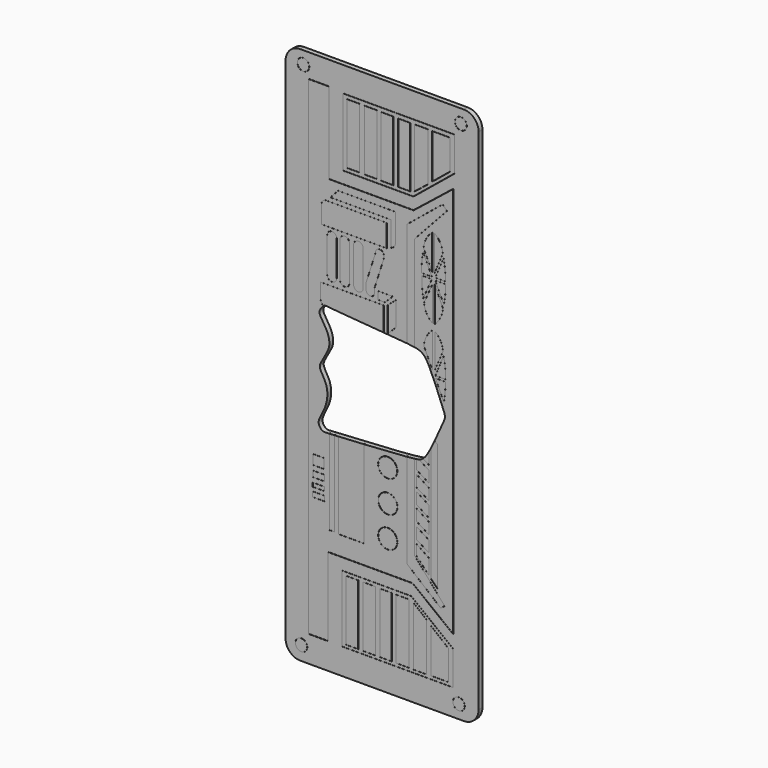
from build123d import *

# Parameters (mm, degrees)
PAD001_DEPTH    = 0.3
POCKET004_DEPTH = 5
SKETCH007_R     = 0.375091
SKETCH007_R_2   = 0.369525
SKETCH007_W     = 0.778816
SKETCH007_H     = 3.830357
SKETCH007_W_2   = 0.766408
SKETCH007_H_2   = 3.817949
SKETCH007_W_3   = 0.807136
SKETCH007_H_3   = 3.827612
SKETCH007_W_4   = 0.794728
SKETCH007_H_4   = 3.815204
SKETCH007_W_5   = 0.757575
SKETCH007_H_5   = 3.810073
SKETCH007_W_6   = 0.745167
SKETCH007_H_6   = 3.797665
SKETCH007_W_7   = 0.821297
SKETCH007_H_7   = 3.802037
SKETCH007_W_8   = 0.808889
SKETCH007_H_8   = 3.789629
SKETCH007_W_9   = 0.800302
SKETCH007_H_9   = 3.824439
SKETCH007_W_10  = 0.779916
SKETCH007_H_10  = 3.804053
SKETCH007_W_11  = 0.801989
SKETCH007_H_11  = 3.827356
SKETCH007_W_12  = 0.781603
SKETCH007_H_12  = 3.80697
SKETCH007_W_13  = 0.773427
SKETCH007_H_13  = 3.820652
SKETCH007_W_14  = 0.753041
SKETCH007_H_14  = 3.800266
SKETCH007_W_15  = 0.766539
SKETCH007_H_15  = 3.807707
SKETCH007_W_16  = 0.746153
SKETCH007_H_16  = 3.787321
POCKET005_DEPTH = 0.15
SKETCH008_R     = 0.606718
SKETCH008_R_2   = 0.598536
SKETCH008_W     = 0.744589
SKETCH008_H     = 0.307479
SKETCH008_W_2   = 0.684248
SKETCH008_H_2   = 0.606549
SKETCH008_W_3   = 0.310181
SKETCH008_H_3   = 5.586291
SKETCH008_W_4   = 1.585213
SKETCH008_H_4   = 5.551224
SKETCH008_W_5   = 0.718894
SKETCH008_H_5   = 0.363777
SKETCH008_W_6   = 0.728086
SKETCH008_H_6   = 0.238187
POCKET006_DEPTH = 0.15
POCKET007_DEPTH = 0.15
POCKET008_DEPTH = 0.15
POCKET015_DEPTH = 0.15


with BuildPart() as part:
    # Sketch005 (on Face1 of Binder) → Pad001 (new body)
    with BuildSketch(Plane.XZ.offset(-0.3)):
        with BuildLine():
            Line((1.126693, 34.178867), (1.126693, 2.112882))
            ThreePointArc((1.126693, 2.112882), (1.399084, 1.455272), (2.056693, 1.182882))
            Line((2.056693, 1.182882), (12.360974, 1.182882))
            ThreePointArc((12.360974, 1.182882), (13.018583, 1.455272), (13.290974, 2.112882))
            Line((13.290974, 2.112882), (13.290974, 34.178867))
            ThreePointArc((13.290974, 34.178867), (13.018583, 34.836476), (12.360974, 35.108867))
            Line((12.360974, 35.108867), (2.056693, 35.108867))
            ThreePointArc((2.056693, 35.108867), (1.399084, 34.836476), (1.126693, 34.178867))
        make_face()
    extrude(amount=PAD001_DEPTH)

    # Sketch006 (on Face10 of Pad001) → Pocket004 (cut)
    with BuildSketch(Plane(origin=(-62, 0, 13), x_dir=(0, 0, 1), z_dir=(0, -1, 0))):
        with BuildLine():
            add(Edge.make_bspline(
                [(1.355602, -65.608966), (1.66804, -71.4399), (1.83578, -71.688), (2.07667, -72.0466), (4.30498, -73.0674), (4.67076, -73.2141), (5.03591, -73.08), (7.4217, -72.1094), (7.7919, -71.7228), (7.96829, -71.2558), (8.19567, -67.6744), (8.37992, -65.8459), (8.42259, -65.5512), (8.14897, -65.3503), (7.85073, -65.1688), (7.12375, -65.7423), (6.32092, -65.9684), (5.76153, -65.7116), (5.10407, -65.3029), (4.8501, -65.2612), (4.52948, -65.4288), (4.05134, -65.7138), (3.48477, -65.791), (2.80509, -65.6762), (2.09148, -65.2854), (1.71373, -65.1348), (1.36287, -65.3938), (1.355602, -65.608966)],
                knots=[0, 0, 0, 0, 0.04, 0.08, 0.12, 0.16, 0.2, 0.24, 0.28, 0.32, 0.36, 0.4, 0.44, 0.48, 0.52, 0.56, 0.6, 0.64, 0.68, 0.72, 0.76, 0.8, 0.84, 0.88, 0.92, 0.96, 1, 1, 1, 1], degree=3))
        make_face()
    extrude(amount=-POCKET004_DEPTH, mode=Mode.SUBTRACT)

    # Sketch007 (on Face5 of Pocket004) → Pocket005 (cut)
    with BuildSketch(Plane.XZ):
        with Locations((12.045078, 2.028436)):
            Circle(SKETCH007_R)
        with Locations((12.045078, 2.028436)):
            Circle(SKETCH007_R_2, mode=Mode.SUBTRACT)
        with Locations((2.245632, 34.308849)):
            Circle(SKETCH007_R)
        with Locations((2.245632, 34.308849)):
            Circle(SKETCH007_R_2, mode=Mode.SUBTRACT)
        with Locations((12.174047, 34.259212)):
            Circle(SKETCH007_R)
        with Locations((12.174047, 34.259212)):
            Circle(SKETCH007_R_2, mode=Mode.SUBTRACT)
        with Locations((2.119383, 2.073536)):
            Circle(SKETCH007_R)
        with Locations((2.119383, 2.073536)):
            Circle(SKETCH007_R_2, mode=Mode.SUBTRACT)
        Polygon((4.69136, 7.041126), (4.69136, 2.822399), (11.682559, 2.822399), (11.682559, 4.982972), (9.036361, 7.041126), align=None)
        Polygon((11.676355, 4.979938), (9.034232, 7.034922), (4.697564, 7.034922), (4.697564, 2.828603), (11.676355, 2.828603), align=None, mode=Mode.SUBTRACT)
        Polygon((4.731433, 33.534367), (4.731433, 29.243624), (9.183317, 29.243624), (11.783524, 31.366392), (11.783524, 33.534367), align=None)
        Polygon((11.773331, 31.371229), (11.773331, 33.524174), (4.741626, 33.524174), (4.741626, 29.253817), (9.179685, 29.253817), align=None, mode=Mode.SUBTRACT)
        with BuildLine():
            Line((2.580592, 33.631219), (3.84992, 33.631219))
            ThreePointArc((3.863295, 33.617844), (3.859378, 33.627302), (3.84992, 33.631219))
            Line((3.863295, 33.617844), (3.863295, 28.496037))
            Line((3.863295, 28.496037), (9.189101, 28.496037))
            Line((9.189101, 28.496037), (11.6782, 30.484009))
            ThreePointArc((11.699922, 30.473558), (11.692346, 30.485611), (11.6782, 30.484009))
            Line((11.699922, 30.473558), (11.699922, 5.798064))
            ThreePointArc((11.678329, 5.787511), (11.69242, 5.786047), (11.699922, 5.798064))
            Line((11.678329, 5.787511), (9.128207, 7.773499))
            Line((9.128207, 7.773499), (3.801404, 7.773499))
            Line((3.801404, 7.773499), (3.801404, 2.846706))
            ThreePointArc((3.788029, 2.833331), (3.797487, 2.837248), (3.801404, 2.846706))
            Line((3.788029, 2.833331), (2.580592, 2.833331))
            ThreePointArc((2.567217, 2.846706), (2.571134, 2.837248), (2.580592, 2.833331))
            Line((2.567217, 2.846706), (2.567217, 33.617844))
            ThreePointArc((2.580592, 33.631219), (2.571134, 33.627302), (2.567217, 33.617844))
        make_face()
        Polygon((2.580592, 2.846706), (2.580592, 33.617844), (3.84992, 33.617844), (3.84992, 28.482662), (9.193787, 28.482662), (11.686547, 30.473558), (11.686547, 5.798064), (9.132801, 7.786874), (3.788029, 7.786874), (3.788029, 2.846706), align=None, mode=Mode.SUBTRACT)
        with Locations((5.317419, 4.916993)):
            Rectangle(SKETCH007_W, SKETCH007_H)
        with Locations((5.317419, 4.916992)):
            Rectangle(SKETCH007_W_2, SKETCH007_H_2, mode=Mode.SUBTRACT)
        with Locations((6.399229, 4.918562)):
            Rectangle(SKETCH007_W_3, SKETCH007_H_3)
        with Locations((6.399229, 4.918562)):
            Rectangle(SKETCH007_W_4, SKETCH007_H_4, mode=Mode.SUBTRACT)
        with Locations((7.440074, 4.912974)):
            Rectangle(SKETCH007_W_5, SKETCH007_H_5)
        with Locations((7.440074, 4.912974)):
            Rectangle(SKETCH007_W_6, SKETCH007_H_6, mode=Mode.SUBTRACT)
        with Locations((8.503483, 4.909912)):
            Rectangle(SKETCH007_W_7, SKETCH007_H_7)
        with Locations((8.503483, 4.909912)):
            Rectangle(SKETCH007_W_8, SKETCH007_H_8, mode=Mode.SUBTRACT)
        Polygon((9.177785, 6.724462), (9.177785, 3.002967), (10.012512, 3.002967), (10.012512, 6.046246), align=None)
        Polygon((10.006308, 3.009171), (10.006308, 6.043293), (9.183989, 6.711428), (9.183989, 3.009171), align=None, mode=Mode.SUBTRACT)
        Polygon((10.281352, 5.802783), (10.281352, 3.022105), (11.396448, 3.022105), (11.396448, 4.898495), align=None)
        Polygon((11.390244, 3.028309), (11.390244, 4.895539), (10.287556, 5.789765), (10.287556, 3.028309), align=None, mode=Mode.SUBTRACT)
        with Locations((5.389204, 31.382154)):
            Rectangle(SKETCH007_W_9, SKETCH007_H_9)
        with Locations((5.389204, 31.382154)):
            Rectangle(SKETCH007_W_10, SKETCH007_H_10, mode=Mode.SUBTRACT)
        with Locations((6.491385, 31.378234)):
            Rectangle(SKETCH007_W_11, SKETCH007_H_11)
        with Locations((6.491385, 31.378234)):
            Rectangle(SKETCH007_W_12, SKETCH007_H_12, mode=Mode.SUBTRACT)
        with Locations((7.531404, 31.368128)):
            Rectangle(SKETCH007_W_13, SKETCH007_H_13)
        with Locations((7.531404, 31.368128)):
            Rectangle(SKETCH007_W_14, SKETCH007_H_14, mode=Mode.SUBTRACT)
        with Locations((8.600178, 31.368429)):
            Rectangle(SKETCH007_W_15, SKETCH007_H_15)
        with Locations((8.600177, 31.368428)):
            Rectangle(SKETCH007_W_16, SKETCH007_H_16, mode=Mode.SUBTRACT)
        with BuildLine():
            Line((10.097285, 33.270725), (10.097285, 30.217928))
            ThreePointArc((10.097285, 30.217928), (10.09626, 30.213473), (10.093391, 30.209914))
            Line((10.093391, 30.209914), (9.266189, 29.559705))
            ThreePointArc((9.266189, 29.559705), (9.255435, 29.558551), (9.249697, 29.567719))
            Line((9.249697, 29.567719), (9.249697, 33.270725))
            ThreePointArc((9.249697, 33.270725), (9.252682, 33.277933), (9.25989, 33.280918))
            Line((9.25989, 33.280918), (10.087092, 33.280918))
            ThreePointArc((10.087092, 33.280918), (10.0943, 33.277933), (10.097285, 33.270725))
        make_face()
        Polygon((9.25989, 33.270725), (10.087092, 33.270725), (10.087092, 30.217928), (9.25989, 29.567719), align=None, mode=Mode.SUBTRACT)
        with BuildLine():
            Line((10.363831, 30.469982), (10.363831, 33.261158))
            ThreePointArc((10.363831, 33.261158), (10.366816, 33.268366), (10.374024, 33.271351))
            Line((10.374024, 33.271351), (11.484273, 33.271351))
            ThreePointArc((11.484273, 33.271351), (11.491481, 33.268366), (11.494466, 33.261158))
            Line((11.494466, 33.261158), (11.494466, 31.379837))
            ThreePointArc((11.494466, 31.379837), (11.493486, 31.375476), (11.490734, 31.371953))
            Line((11.490734, 31.371953), (10.380485, 30.462098))
            ThreePointArc((10.380485, 30.462098), (10.369663, 30.460769), (10.363831, 30.469982))
        make_face()
        Polygon((10.374024, 33.261158), (11.484273, 33.261158), (11.484273, 31.379837), (10.374024, 30.469982), align=None, mode=Mode.SUBTRACT)
    extrude(amount=-POCKET005_DEPTH, mode=Mode.SUBTRACT)

    # Sketch008 (on Face42 of Pocket005) → Pocket006 (cut)
    with BuildSketch(Plane.XZ):
        with Locations((7.567519, 9.742254)):
            Circle(SKETCH008_R)
        with Locations((7.567519, 9.742254)):
            Circle(SKETCH008_R_2, mode=Mode.SUBTRACT)
        with Locations((7.562839, 13.685203)):
            Circle(SKETCH008_R)
        with Locations((7.562839, 13.685203)):
            Circle(SKETCH008_R_2, mode=Mode.SUBTRACT)
        with Locations((7.572141, 11.689745)):
            Circle(SKETCH008_R)
        with Locations((7.572141, 11.689745)):
            Circle(SKETCH008_R_2, mode=Mode.SUBTRACT)
        with BuildLine():
            Line((2.814997, 10.826424), (2.814997, 10.518945))
            ThreePointArc((2.820425, 10.513517), (2.816587, 10.515107), (2.814997, 10.518945))
            Line((2.820425, 10.513517), (3.565014, 10.513517))
            ThreePointArc((3.570442, 10.518945), (3.568852, 10.515107), (3.565014, 10.513517))
            Line((3.570442, 10.518945), (3.570442, 10.826424))
            ThreePointArc((3.565014, 10.831852), (3.568852, 10.830262), (3.570442, 10.826424))
            Line((3.565014, 10.831852), (2.820425, 10.831852))
            ThreePointArc((2.814997, 10.826424), (2.816587, 10.830262), (2.820425, 10.831852))
        make_face()
        with Locations((3.192719, 10.672684)):
            Rectangle(SKETCH008_W, SKETCH008_H, mode=Mode.SUBTRACT)
        with BuildLine():
            Line((2.853515, 12.295472), (3.537763, 12.295472))
            ThreePointArc((3.543191, 12.3009), (3.541601, 12.297062), (3.537763, 12.295472))
            Line((3.543191, 12.3009), (3.543191, 12.907449))
            ThreePointArc((3.537763, 12.912877), (3.541601, 12.911287), (3.543191, 12.907449))
            Line((3.537763, 12.912877), (2.853515, 12.912877))
            ThreePointArc((2.848087, 12.907449), (2.849677, 12.911287), (2.853515, 12.912877))
            Line((2.848087, 12.907449), (2.848087, 12.3009))
            ThreePointArc((2.853515, 12.295472), (2.849677, 12.297062), (2.848087, 12.3009))
        make_face()
        with Locations((3.195639, 12.604174)):
            Rectangle(SKETCH008_W_2, SKETCH008_H_2, mode=Mode.SUBTRACT)
        with BuildLine():
            Line((4.202824, 14.617292), (3.892643, 14.617292))
            ThreePointArc((3.887215, 14.611864), (3.888805, 14.615702), (3.892643, 14.617292))
            Line((3.887215, 14.611864), (3.887215, 9.025573))
            ThreePointArc((3.892643, 9.020145), (3.888805, 9.021735), (3.887215, 9.025573))
            Line((3.892643, 9.020145), (4.202824, 9.020145))
            ThreePointArc((4.208252, 9.025573), (4.206662, 9.021735), (4.202824, 9.020145))
            Line((4.208252, 9.025573), (4.208252, 14.611864))
            ThreePointArc((4.202824, 14.617292), (4.206662, 14.615702), (4.208252, 14.611864))
        make_face()
        with Locations((4.047733, 11.818718)):
            Rectangle(SKETCH008_W_3, SKETCH008_H_3, mode=Mode.SUBTRACT)
        with BuildLine():
            Line((6.059732, 14.546678), (4.474519, 14.546678))
            ThreePointArc((4.469091, 14.54125), (4.470681, 14.545088), (4.474519, 14.546678))
            Line((4.469091, 14.54125), (4.469091, 8.990026))
            ThreePointArc((4.474519, 8.984598), (4.470681, 8.986188), (4.469091, 8.990026))
            Line((4.474519, 8.984598), (6.059732, 8.984598))
            ThreePointArc((6.06516, 8.990026), (6.06357, 8.986188), (6.059732, 8.984598))
            Line((6.06516, 8.990026), (6.06516, 14.54125))
            ThreePointArc((6.059732, 14.546678), (6.06357, 14.545088), (6.06516, 14.54125))
        make_face()
        with Locations((5.267125, 11.765638)):
            Rectangle(SKETCH008_W_4, SKETCH008_H_4, mode=Mode.SUBTRACT)
        with BuildLine():
            Line((2.853515, 11.619886), (3.572409, 11.619886))
            ThreePointArc((3.577837, 11.625314), (3.576247, 11.621476), (3.572409, 11.619886))
            Line((3.577837, 11.625314), (3.577837, 11.989091))
            ThreePointArc((3.572409, 11.994519), (3.576247, 11.992929), (3.577837, 11.989091))
            Line((3.572409, 11.994519), (2.853515, 11.994519))
            ThreePointArc((2.848087, 11.989091), (2.849677, 11.992929), (2.853515, 11.994519))
            Line((2.848087, 11.989091), (2.848087, 11.625314))
            ThreePointArc((2.853515, 11.619886), (2.849677, 11.621476), (2.848087, 11.625314))
        make_face()
        with Locations((3.212962, 11.807202)):
            Rectangle(SKETCH008_W_5, SKETCH008_H_5, mode=Mode.SUBTRACT)
        with BuildLine():
            Line((3.573988, 11.083446), (3.573988, 11.321633))
            ThreePointArc((3.56856, 11.327061), (3.572398, 11.325471), (3.573988, 11.321633))
            Line((3.56856, 11.327061), (2.840474, 11.327061))
            ThreePointArc((2.835046, 11.321633), (2.836636, 11.325471), (2.840474, 11.327061))
            Line((2.835046, 11.321633), (2.835046, 11.083446))
            ThreePointArc((2.840474, 11.078018), (2.836636, 11.079608), (2.835046, 11.083446))
            Line((2.840474, 11.078018), (3.56856, 11.078018))
            ThreePointArc((3.573988, 11.083446), (3.572398, 11.079608), (3.56856, 11.078018))
        make_face()
        with Locations((3.204517, 11.20254)):
            Rectangle(SKETCH008_W_6, SKETCH008_H_6, mode=Mode.SUBTRACT)
        with BuildLine():
            Line((11.2947, 29.132057), (11.031389, 29.414585))
            ThreePointArc((11.02682, 29.414896), (11.029166, 29.415644), (11.031389, 29.414585))
            Line((11.02682, 29.414896), (8.769895, 27.571117))
            ThreePointArc((8.768665, 27.568523), (8.768988, 27.569958), (8.769895, 27.571117))
            Line((8.768665, 27.568523), (8.768665, 8.745967))
            ThreePointArc((8.769877, 8.743388), (8.768983, 8.744542), (8.768665, 8.745967))
            Line((8.769877, 8.743388), (10.903269, 6.974993))
            ThreePointArc((10.907507, 6.974964), (10.905383, 6.974223), (10.903269, 6.974993))
            Line((10.907507, 6.974964), (11.149418, 7.169855))
            ThreePointArc((11.149847, 7.174658), (11.150653, 7.172165), (11.149418, 7.169855))
            Line((11.149847, 7.174658), (9.240158, 9.375393))
            Line((9.240158, 9.375393), (9.240158, 26.899848))
            Line((9.240158, 26.899848), (11.294712, 29.127503))
            ThreePointArc((11.2947, 29.132057), (11.295599, 29.129783), (11.294712, 29.127503))
        make_face()
        Polygon((10.905406, 6.977572), (11.147317, 7.172463), (9.236809, 9.374142), (9.236809, 26.901157), (11.29225, 29.129774), (11.028939, 29.412302), (8.772014, 27.568523), (8.772014, 8.745967), align=None, mode=Mode.SUBTRACT)
    extrude(amount=-POCKET006_DEPTH, mode=Mode.SUBTRACT)

    # Sketch009 (on Face42 of Pocket006) → Pocket007 (cut)
    with BuildSketch(Plane.XZ):
        with BuildLine():
            ThreePointArc((10.381574, 22.222864), (10.00685, 21.756493), (9.837909, 21.182578))
            Line((9.837909, 21.182578), (10.381574, 20.006021))
            Line((10.381574, 20.006021), (10.381574, 22.222864))
        make_face()
        with BuildLine():
            Line((9.841828, 21.183254), (10.377732, 20.023493))
            Line((10.377732, 20.023493), (10.377732, 22.214591))
            ThreePointArc((10.377732, 22.214591), (10.008584, 21.751506), (9.841828, 21.183254))
        make_face(mode=Mode.SUBTRACT)
        with BuildLine():
            ThreePointArc((11.047947, 21.265291), (10.893768, 21.798191), (10.529394, 22.216503))
            Line((10.529394, 22.216503), (10.529394, 20.040993))
            Line((10.529394, 20.040993), (11.047947, 21.265291))
        make_face()
        with BuildLine():
            Line((10.533236, 20.059913), (11.044055, 21.265951))
            ThreePointArc((11.044055, 21.265951), (10.892001, 21.793397), (10.533236, 22.208856))
            Line((10.533236, 22.208856), (10.533236, 20.059913))
        make_face(mode=Mode.SUBTRACT)
        with BuildLine():
            ThreePointArc((11.107155, 18.447756), (11.180929, 19.034222), (11.203118, 19.624894))
            Line((11.203118, 19.624894), (10.56467, 19.624894))
            Line((10.56467, 19.624894), (11.107155, 18.447756))
        make_face()
        with BuildLine():
            ThreePointArc((11.105445, 18.460646), (11.177449, 19.038821), (11.199299, 19.621052))
            Line((11.199299, 19.621052), (10.57067, 19.621052))
            Line((10.57067, 19.621052), (11.105445, 18.460646))
        make_face(mode=Mode.SUBTRACT)
        with BuildLine():
            ThreePointArc((10.523294, 22.59779), (10.881738, 23.068561), (11.05464, 23.634435))
            Line((10.523294, 24.804707), (11.05464, 23.634435))
            Line((10.523294, 22.59779), (10.523294, 24.804707))
        make_face()
        with BuildLine():
            ThreePointArc((10.527136, 22.606566), (10.88007, 23.073738), (11.050698, 23.633826))
            Line((10.527136, 24.786953), (11.050698, 23.633826))
            Line((10.527136, 22.606566), (10.527136, 24.786953))
        make_face(mode=Mode.SUBTRACT)
        with BuildLine():
            ThreePointArc((9.710884, 25.041148), (9.725754, 24.415364), (9.800253, 23.793852))
            Line((9.800253, 23.793852), (10.350559, 25.041148))
            Line((10.350559, 25.041148), (9.710884, 25.041148))
        make_face()
        with BuildLine():
            ThreePointArc((9.714635, 25.037306), (9.729263, 24.420168), (9.80192, 23.807147))
            Line((9.80192, 23.807147), (10.344665, 25.037306))
            Line((10.344665, 25.037306), (9.714635, 25.037306))
        make_face(mode=Mode.SUBTRACT)
        with BuildLine():
            ThreePointArc((11.105835, 23.859908), (11.192576, 24.449477), (11.214635, 25.044985))
            Line((10.555792, 25.044985), (11.214635, 25.044985))
            Line((11.105835, 23.859908), (10.555792, 25.044985))
        make_face()
        with BuildLine():
            ThreePointArc((11.104391, 23.872145), (11.189111, 24.453777), (11.210859, 25.041143))
            Line((10.56181, 25.041143), (11.210859, 25.041143))
            Line((11.104391, 23.872145), (10.56181, 25.041143))
        make_face(mode=Mode.SUBTRACT)
        with BuildLine():
            ThreePointArc((10.370843, 27.641324), (9.988396, 27.174783), (9.822829, 26.594686))
            Line((10.370843, 25.438495), (9.822829, 26.594686))
            Line((10.370843, 27.641324), (10.370843, 25.438495))
        make_face()
        with BuildLine():
            ThreePointArc((10.367001, 27.63325), (9.990168, 27.169877), (9.826735, 26.595414))
            Line((10.367001, 25.45557), (9.826735, 26.595414))
            Line((10.367001, 27.63325), (10.367001, 25.45557))
        make_face(mode=Mode.SUBTRACT)
        with BuildLine():
            ThreePointArc((11.039974, 26.67977), (10.883743, 27.214415), (10.519296, 27.635643))
            Line((10.519296, 25.438641), (10.519296, 27.635643))
            Line((11.039974, 26.67977), (10.519296, 25.438641))
        make_face()
        with BuildLine():
            ThreePointArc((11.036078, 26.680413), (10.881987, 27.209597), (10.523138, 27.627936))
            Line((10.523138, 25.457729), (10.523138, 27.627936))
            Line((11.036078, 26.680413), (10.523138, 25.457729))
        make_face(mode=Mode.SUBTRACT)
        with BuildLine():
            Line((9.792059, 26.376844), (10.348312, 25.180063))
            ThreePointArc((10.348312, 25.180063), (10.348067, 25.176378), (10.344828, 25.174602))
            Line((9.706977, 25.174602), (10.344828, 25.174602))
            ThreePointArc((9.706977, 25.174602), (9.704328, 25.175661), (9.70314, 25.178254))
            ThreePointArc((9.7848, 26.375934), (9.70873, 25.779497), (9.70314, 25.178254))
            ThreePointArc((9.7848, 26.375934), (9.788098, 26.379037), (9.792059, 26.376844))
        make_face()
        with BuildLine():
            ThreePointArc((9.788576, 26.375225), (9.712563, 25.779235), (9.706977, 25.178444))
            Line((9.706977, 25.178444), (10.344828, 25.178444))
            Line((9.788576, 26.375225), (10.344828, 25.178444))
        make_face(mode=Mode.SUBTRACT)
        with BuildLine():
            Line((11.204948, 19.761951), (10.571971, 19.761951))
            ThreePointArc((10.571971, 19.761951), (10.568783, 19.76365), (10.568414, 19.767244))
            Line((11.081578, 21.025281), (10.568414, 19.767244))
            ThreePointArc((11.081578, 21.025281), (11.085449, 21.027659), (11.088881, 21.024682))
            ThreePointArc((11.208788, 19.765663), (11.189409, 20.399037), (11.088881, 21.024682))
            ThreePointArc((11.208788, 19.765663), (11.207618, 19.763031), (11.204948, 19.761951))
        make_face()
        with BuildLine():
            ThreePointArc((11.204948, 19.765793), (11.185585, 20.398673), (11.085135, 21.02383))
            Line((11.085135, 21.02383), (10.571971, 19.765793))
            Line((11.204948, 19.765793), (10.571971, 19.765793))
        make_face(mode=Mode.SUBTRACT)
        with BuildLine():
            Line((10.38404, 24.769808), (10.38404, 22.609736))
            ThreePointArc((10.38404, 22.609736), (10.381914, 22.606299), (10.377889, 22.606666))
            ThreePointArc((9.84747, 23.57162), (10.00905, 23.03218), (10.377889, 22.606666))
            ThreePointArc((9.84747, 23.57162), (9.847513, 23.572567), (9.847786, 23.573476))
            Line((9.847786, 23.573476), (10.376684, 24.77136))
            ThreePointArc((10.376684, 24.77136), (10.380992, 24.773567), (10.38404, 24.769808))
        make_face()
        with BuildLine():
            ThreePointArc((9.8513, 23.571924), (10.012417, 23.03403), (10.380199, 22.609736))
            Line((10.380199, 24.769808), (10.380199, 22.609736))
            Line((9.8513, 23.571924), (10.380199, 24.769808))
        make_face(mode=Mode.SUBTRACT)
        with BuildLine():
            Line((11.202956, 25.190145), (10.559283, 25.190145))
            ThreePointArc((10.559283, 25.190145), (10.556085, 25.191859), (10.555739, 25.19547))
            Line((10.555739, 25.19547), (11.082841, 26.454426))
            ThreePointArc((11.082841, 26.454426), (11.086781, 26.456764), (11.090158, 26.453667))
            ThreePointArc((11.206798, 25.193967), (11.179179, 25.82666), (11.090158, 26.453667))
            ThreePointArc((11.206798, 25.193967), (11.205666, 25.191263), (11.202956, 25.190145))
        make_face()
        with BuildLine():
            ThreePointArc((11.202956, 25.193987), (11.175354, 25.826306), (11.086385, 26.452943))
            Line((10.559283, 25.193987), (11.086385, 26.452943))
            Line((11.202956, 25.193987), (10.559283, 25.193987))
        make_face(mode=Mode.SUBTRACT)
    extrude(amount=-POCKET007_DEPTH, mode=Mode.SUBTRACT)

    # Sketch010 (on Face42 of Pocket007) → Pocket008 (cut)
    with BuildSketch(Plane.XZ):
        with BuildLine():
            ThreePointArc((4.352748, 25.333145), (4.053459, 25.640706), (3.749188, 25.338072))
            Line((3.749188, 23.169767), (3.749188, 25.338072))
            ThreePointArc((3.749188, 23.169767), (4.045195, 22.844844), (4.352748, 23.15886))
            Line((4.352748, 25.333145), (4.352748, 23.15886))
        make_face()
        with BuildLine():
            Line((4.349576, 25.333205), (4.349578, 23.158737))
            ThreePointArc((3.75236, 23.169529), (4.045257, 22.848021), (4.349578, 23.158737))
            Line((3.75236, 25.338081), (3.75236, 23.169529))
            ThreePointArc((4.349576, 25.333205), (4.053433, 25.637534), (3.75236, 25.338081))
        make_face(mode=Mode.SUBTRACT)
        with BuildLine():
            ThreePointArc((3.325617, 21.643093), (3.560932, 21.261875), (3.967498, 21.073715))
            Line((7.315129, 21.073715), (3.967498, 21.073715))
            Line((7.315129, 22.601913), (7.315129, 21.073715))
            Line((3.325617, 22.601913), (7.315129, 22.601913))
            Line((3.325617, 21.643093), (3.325617, 22.601913))
        make_face()
        with BuildLine():
            Line((3.328789, 21.64351), (3.328789, 22.598741))
            Line((3.328789, 22.598741), (7.311957, 22.598741))
            Line((7.311957, 22.598741), (7.311957, 21.076887))
            Line((7.311957, 21.076887), (3.967723, 21.076887))
            ThreePointArc((3.328789, 21.64351), (3.563109, 21.264185), (3.967723, 21.076887))
        make_face(mode=Mode.SUBTRACT)
        Polygon((6.958669, 23.283884), (7.896339, 23.283884), (7.38583, 22.794212), (6.958669, 22.794212), align=None)
        Polygon((7.384555, 22.797384), (6.961841, 22.797384), (6.961841, 23.280712), (7.888449, 23.280712), align=None, mode=Mode.SUBTRACT)
        with BuildLine():
            ThreePointArc((3.731967, 27.242815), (3.511101, 27.190256), (3.400844, 26.991793))
            Line((3.400844, 26.991793), (3.400831, 25.82872))
            ThreePointArc((3.404003, 25.825548), (3.40176, 25.826477), (3.400831, 25.82872))
            Line((3.404003, 25.825548), (7.499319, 25.825548))
            ThreePointArc((7.502491, 25.82872), (7.501562, 25.826477), (7.499319, 25.825548))
            Line((7.502491, 25.82872), (7.502491, 27.239643))
            ThreePointArc((7.499319, 27.242815), (7.501562, 27.241886), (7.502491, 27.239643))
            Line((7.499319, 27.242815), (3.731967, 27.242815))
        make_face()
        with BuildLine():
            ThreePointArc((3.731677, 27.239643), (3.513132, 27.187815), (3.404003, 26.991501))
            Line((3.404003, 26.991501), (3.404003, 25.82872))
            Line((3.404003, 25.82872), (7.499319, 25.82872))
            Line((7.499319, 25.82872), (7.499319, 27.239643))
            Line((7.499319, 27.239643), (3.731677, 27.239643))
        make_face(mode=Mode.SUBTRACT)
        with BuildLine():
            ThreePointArc((7.783155, 25.950663), (7.780359, 25.951166), (7.779088, 25.953706))
            Line((7.779088, 27.497026), (7.779088, 25.953706))
            Line((3.954886, 27.497026), (7.779088, 27.497026))
            ThreePointArc((3.954886, 27.497026), (3.951981, 27.498924), (3.952553, 27.502347))
            Line((4.437877, 28.029294), (3.952553, 27.502347))
            ThreePointArc((4.437877, 28.029294), (4.438936, 28.03005), (4.44021, 28.030317))
            Line((8.05037, 28.030317), (4.44021, 28.030317))
            ThreePointArc((8.05037, 28.030317), (8.052613, 28.029388), (8.053542, 28.027145))
            Line((8.053542, 26.276216), (8.053542, 28.027145))
            ThreePointArc((8.053542, 26.276216), (8.053538, 26.276054), (8.053526, 26.275892))
            ThreePointArc((7.783155, 25.950663), (7.967866, 26.072105), (8.053526, 26.275892))
        make_face()
        with BuildLine():
            ThreePointArc((7.78226, 25.953706), (7.965427, 26.074133), (8.05037, 26.276216))
            Line((8.05037, 26.276216), (8.05037, 28.027145))
            Line((8.05037, 28.027145), (4.44021, 28.027145))
            Line((4.44021, 28.027145), (3.954886, 27.500198))
            Line((3.954886, 27.500198), (7.78226, 27.500198))
            Line((7.78226, 27.500198), (7.78226, 25.953706))
        make_face(mode=Mode.SUBTRACT)
        with BuildLine():
            Line((7.567799, 21.110838), (8.080967, 21.626557))
            ThreePointArc((8.08189, 21.628794), (8.08165, 21.627584), (8.080967, 21.626557))
            Line((8.08189, 21.628794), (8.08189, 23.140629))
            ThreePointArc((8.076646, 23.143031), (8.080039, 23.143513), (8.08189, 23.140629))
            Line((8.076646, 23.143031), (7.563478, 22.700242))
            ThreePointArc((7.562378, 22.69784), (7.562666, 22.699161), (7.563478, 22.700242))
            Line((7.562378, 22.69784), (7.562378, 21.113075))
            ThreePointArc((7.567799, 21.110838), (7.56434, 21.110143), (7.562378, 21.113075))
        make_face()
        Polygon((8.078718, 23.140629), (7.56555, 22.69784), (7.56555, 21.113075), (8.078718, 21.628794), align=None, mode=Mode.SUBTRACT)
        with BuildLine():
            ThreePointArc((7.324167, 25.213755), (7.324129, 25.213264), (7.324015, 25.212784))
            Line((6.733445, 23.37534), (7.324015, 25.212784))
            Line((6.733445, 23.108342), (6.733445, 23.37534))
            ThreePointArc((6.200374, 23.123363), (6.459205, 22.842437), (6.733445, 23.108342))
            Line((6.200374, 23.123363), (6.200374, 23.50795))
            ThreePointArc((6.200374, 23.50795), (6.200412, 23.508444), (6.200528, 23.508926))
            Line((6.200528, 23.508926), (6.793221, 25.342362))
            ThreePointArc((7.324167, 25.337978), (7.061075, 25.628496), (6.793221, 25.342362))
            Line((7.324167, 25.213755), (7.324167, 25.337978))
        make_face()
        with BuildLine():
            ThreePointArc((6.203546, 23.123278), (6.459252, 22.845609), (6.730273, 23.108351))
            Line((6.730273, 23.108351), (6.730273, 23.375837))
            Line((6.730273, 23.375837), (7.320995, 25.213755))
            Line((7.320995, 25.213755), (7.320995, 25.338123))
            ThreePointArc((7.320995, 25.338123), (7.06081, 25.625325), (6.796431, 25.341979))
            Line((6.203546, 23.50795), (6.796431, 25.341979))
            Line((6.203546, 23.123278), (6.203546, 23.50795))
        make_face(mode=Mode.SUBTRACT)
        with BuildLine():
            Line((4.547035, 23.157067), (4.547035, 25.337803))
            ThreePointArc((5.156584, 25.333568), (4.853948, 25.643512), (4.547035, 25.337803))
            Line((5.156584, 25.333568), (5.156584, 23.157396))
            ThreePointArc((4.547035, 23.157067), (4.851983, 22.835456), (5.156584, 23.157396))
        make_face()
        with BuildLine():
            ThreePointArc((5.153411, 25.333595), (4.853937, 25.64034), (4.550207, 25.337808))
            Line((4.550207, 23.156982), (4.550207, 25.337808))
            ThreePointArc((4.550207, 23.156982), (4.851982, 22.838629), (5.153411, 23.157309))
            Line((5.153411, 25.333595), (5.153411, 23.157309))
        make_face(mode=Mode.SUBTRACT)
        with BuildLine():
            Line((5.410376, 23.144503), (5.410376, 25.337529))
            ThreePointArc((6.02013, 25.334024), (5.717021, 25.643432), (5.410376, 25.337529))
            Line((6.02013, 25.334024), (6.02013, 23.156732))
            ThreePointArc((5.410376, 23.144503), (5.721718, 22.828249), (6.02013, 23.156732))
        make_face()
        with BuildLine():
            ThreePointArc((6.016957, 25.334047), (5.717012, 25.64026), (5.413548, 25.337534))
            Line((5.413548, 23.144446), (5.413548, 25.337534))
            ThreePointArc((5.413548, 23.144446), (5.721686, 22.831421), (6.016957, 23.156612))
            Line((6.016957, 25.334047), (6.016957, 23.156612))
        make_face(mode=Mode.SUBTRACT)
    extrude(amount=-POCKET008_DEPTH, mode=Mode.SUBTRACT)

    # Sketch016 (on Face42 of Pocket008) → Pocket015 (cut)
    with BuildSketch(Plane.XZ):
        Polygon((9.385396, 12.002758), (10.154909, 11.518437), (10.154909, 10.804612), (9.385396, 11.285558), align=None)
        Polygon((9.389757, 11.99486), (10.150548, 11.516029), (10.150548, 10.812481), (9.389757, 11.287975), align=None, mode=Mode.SUBTRACT)
        with BuildLine():
            Line((10.160933, 9.804494), (10.160933, 10.506506))
            ThreePointArc((10.158903, 10.510192), (10.160392, 10.50861), (10.160933, 10.506506))
            Line((10.158903, 10.510192), (9.374203, 11.006326))
            ThreePointArc((9.367511, 11.00264), (9.369768, 11.00646), (9.374203, 11.006326))
            Line((9.367511, 11.00264), (9.367511, 10.283752))
            ThreePointArc((9.369599, 10.28003), (9.368068, 10.281618), (9.367511, 10.283752))
            Line((9.369599, 10.28003), (10.154299, 9.800772))
            ThreePointArc((10.160933, 9.804494), (10.158706, 9.80069), (10.154299, 9.800772))
        make_face()
        Polygon((9.371872, 11.00264), (9.371872, 10.283752), (10.156572, 9.804494), (10.156572, 10.506506), align=None, mode=Mode.SUBTRACT)
        with BuildLine():
            Line((9.441434, 16.873859), (9.441434, 16.224291))
            ThreePointArc((9.443035, 16.220914), (9.441854, 16.222422), (9.441434, 16.224291))
            Line((9.443035, 16.220914), (10.290732, 15.528137))
            Line((10.290732, 15.528137), (10.290732, 8.397667))
            ThreePointArc((10.292005, 8.394587), (10.291062, 8.396001), (10.290732, 8.397667))
            Line((10.292005, 8.394587), (10.694155, 7.991266))
            ThreePointArc((10.701604, 7.994346), (10.698909, 7.990315), (10.694155, 7.991266))
            Line((10.701604, 7.994346), (10.701604, 15.987389))
            ThreePointArc((10.699764, 15.990948), (10.701117, 15.989392), (10.701604, 15.987389))
            Line((10.699764, 15.990948), (9.448316, 16.877418))
            ThreePointArc((9.441434, 16.873859), (9.443792, 16.877733), (9.448316, 16.877418))
        make_face()
        Polygon((9.445795, 16.224291), (10.295093, 15.530205), (10.295093, 8.397667), (10.697243, 7.994346), (10.697243, 15.987389), (9.445795, 16.873859), align=None, mode=Mode.SUBTRACT)
        with BuildLine():
            Line((9.379288, 10.031207), (9.379288, 9.374758))
            ThreePointArc((9.380471, 9.371771), (9.379594, 9.373152), (9.379288, 9.374758))
            Line((9.380471, 9.371771), (10.14846, 8.554524))
            ThreePointArc((10.155999, 8.557511), (10.153244, 8.553456), (10.14846, 8.554524))
            Line((10.155999, 8.557511), (10.155999, 9.517715))
            ThreePointArc((10.154062, 9.521341), (10.155485, 9.51977), (10.155999, 9.517715))
            Line((10.154062, 9.521341), (9.386073, 10.034833))
            ThreePointArc((9.379288, 10.031207), (9.381594, 10.035054), (9.386073, 10.034833))
        make_face()
        Polygon((9.383649, 10.031207), (9.383649, 9.374758), (10.151638, 8.557511), (10.151638, 9.517715), align=None, mode=Mode.SUBTRACT)
        with BuildLine():
            Line((9.382176, 12.935134), (9.382176, 12.218688))
            ThreePointArc((9.384217, 12.214995), (9.38272, 12.216578), (9.382176, 12.218688))
            Line((9.384217, 12.214995), (10.152936, 11.732238))
            ThreePointArc((10.159617, 11.735931), (10.157366, 11.732114), (10.152936, 11.732238))
            Line((10.159617, 11.735931), (10.159617, 12.440079))
            ThreePointArc((10.157617, 12.443746), (10.159085, 12.442167), (10.159617, 12.440079))
            Line((10.157617, 12.443746), (9.388898, 12.938801))
            ThreePointArc((9.382176, 12.935134), (9.384449, 12.938963), (9.388898, 12.938801))
        make_face()
        Polygon((9.386537, 12.935134), (9.386537, 12.218688), (10.155256, 11.735931), (10.155256, 12.440079), align=None, mode=Mode.SUBTRACT)
        with BuildLine():
            Line((9.370025, 13.901842), (9.370025, 13.173096))
            ThreePointArc((9.372125, 13.169367), (9.370586, 13.170956), (9.370025, 13.173096))
            Line((9.372125, 13.169367), (10.153144, 12.695836))
            ThreePointArc((10.159766, 12.699565), (10.157545, 12.695765), (10.153144, 12.695836))
            Line((10.159766, 12.699565), (10.159766, 13.400637))
            ThreePointArc((10.157761, 13.404308), (10.159232, 13.402728), (10.159766, 13.400637))
            Line((9.376742, 13.905513), (10.157761, 13.404308))
            ThreePointArc((9.370025, 13.901842), (9.372295, 13.905669), (9.376742, 13.905513))
        make_face()
        Polygon((9.374386, 13.901842), (9.374386, 13.173096), (10.155405, 12.699565), (10.155405, 13.400637), align=None, mode=Mode.SUBTRACT)
        with BuildLine():
            Line((9.377347, 14.862963), (9.377347, 14.152804))
            ThreePointArc((9.379391, 14.149109), (9.377892, 14.150692), (9.377347, 14.152804))
            Line((9.379391, 14.149109), (10.149097, 13.666568))
            ThreePointArc((10.155775, 13.670263), (10.153526, 13.666447), (10.149097, 13.666568))
            Line((10.155775, 13.670263), (10.155775, 14.379041))
            ThreePointArc((10.153735, 14.382733), (10.155232, 14.38115), (10.155775, 14.379041))
            Line((10.153735, 14.382733), (9.384029, 14.866655))
            ThreePointArc((9.377347, 14.862963), (9.379599, 14.866781), (9.384029, 14.866655))
        make_face()
        Polygon((9.381708, 14.862963), (9.381708, 14.152804), (10.151414, 13.670263), (10.151414, 14.379041), align=None, mode=Mode.SUBTRACT)
        with BuildLine():
            Line((9.380009, 15.153699), (10.148728, 14.680168))
            ThreePointArc((10.155376, 14.683881), (10.153142, 14.680073), (10.148728, 14.680168))
            Line((10.155376, 14.683881), (10.155376, 15.391103))
            ThreePointArc((10.153335, 15.394797), (10.154832, 15.393213), (10.155376, 15.391103))
            Line((10.153335, 15.394797), (9.384616, 15.877552))
            ThreePointArc((9.377935, 15.873858), (9.380186, 15.877675), (9.384616, 15.877552))
            Line((9.377935, 15.873858), (9.377935, 15.157412))
            ThreePointArc((9.380009, 15.153699), (9.378488, 15.155285), (9.377935, 15.157412))
        make_face()
        Polygon((9.382296, 15.873858), (9.382296, 15.157412), (10.151015, 14.683881), (10.151015, 15.391103), align=None, mode=Mode.SUBTRACT)
    extrude(amount=-POCKET015_DEPTH, mode=Mode.SUBTRACT)


solid = part.part
